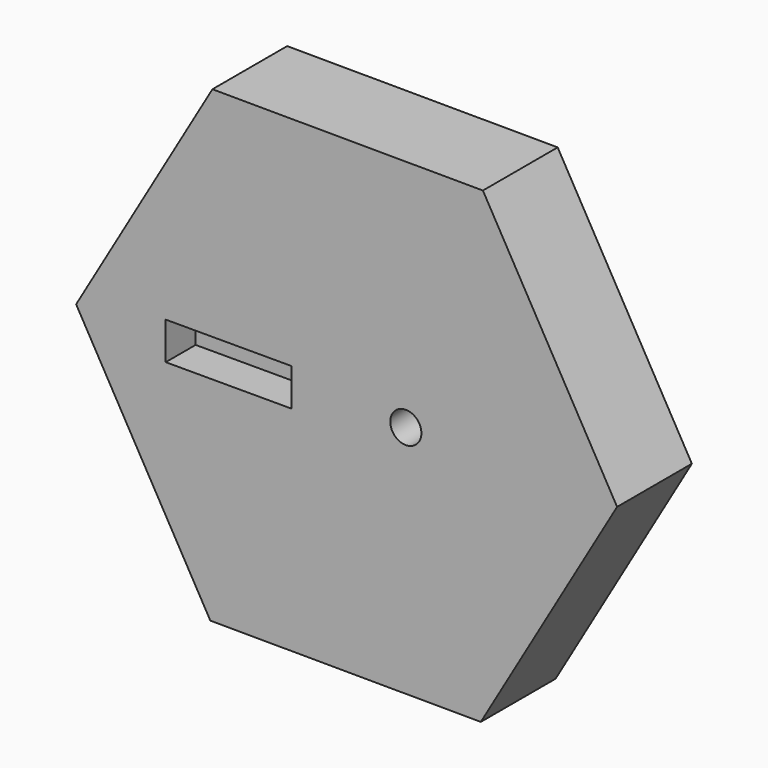
from build123d import *

# Parameters (mm, degrees)
F1_DEPTH = 7.62
F2_R     = 1.27
F3_DEPTH = 25.4
F4_W     = 10.240057
F4_H     = 3.056733
F5_DEPTH = 3.048
F7_DEPTH = 1.778


with BuildPart() as f1:
    # F0 (on Front) → F1 (new body)
    with BuildSketch(Plane.XZ):
        Polygon((-22.053678, 0.098198), (-11.111881, -19.049946), (10.941797, -19.148145), (22.053678, -0.098198), (11.111881, 19.049946), (-10.941797, 19.148145), align=None)
    extrude(amount=F1_DEPTH)

    # F2 (on face) → F3 (cut)
    with BuildSketch(Plane.XZ.offset(7.62)):
        with Locations((4.827668, 0)):
            Circle(F2_R)
    extrude(amount=-F3_DEPTH, mode=Mode.SUBTRACT)

    # F4 (on face) → F5 (cut)
    with BuildSketch(Plane.XZ.offset(7.62)):
        with Locations((-9.62871, -0.152837)):
            Rectangle(F4_W, F4_H)
    extrude(amount=-F5_DEPTH, mode=Mode.SUBTRACT)

    # F6 (on Front) → F7 (cut)
    with BuildSketch(Plane.XZ):
        Polygon((-8.3185, -14.408065), (8.3185, -14.408065), (16.637, 0), (8.3185, 14.408065), (-8.3185, 14.408065), (-16.637, 0), align=None)
    extrude(amount=F7_DEPTH, mode=Mode.SUBTRACT)


solid = f1.part
